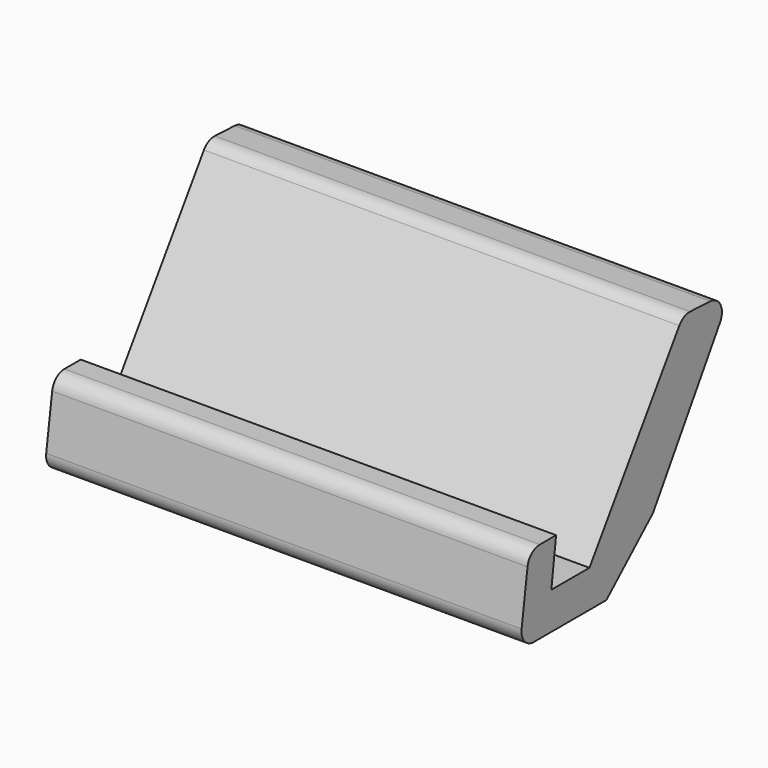
from build123d import *

# Parameters (mm, degrees)
F1_DEPTH = 155.50622
F2_R     = 5.08


with BuildPart() as f1:
    # F0 (on Right) → F1 (new body)
    with BuildSketch(Plane.YZ):
        Polygon((48.179232, 43.415442), (28.474465, 44.281583), (-9.852382, -12.883884), (-25.442963, -12.883884), (-23.494141, 2.057091), (-34.537468, 2.057091), (-38.435116, -25.009893), (-2.923236, -25.009893), (16.131921, -7.687023), align=None)
    extrude(amount=-F1_DEPTH)

    # F2
    f2_edges = [f1.edges().sort_by_distance(p)[0] for p in [
        (-77.75311, 28.474465, 44.281583),
        (-77.75311, 48.179232, 43.415442),
        (-77.75311, -34.537468, 2.057091),
        (-77.75311, -38.435116, -25.009893),
    ]]
    fillet(f2_edges, radius=F2_R)


solid = f1.part
